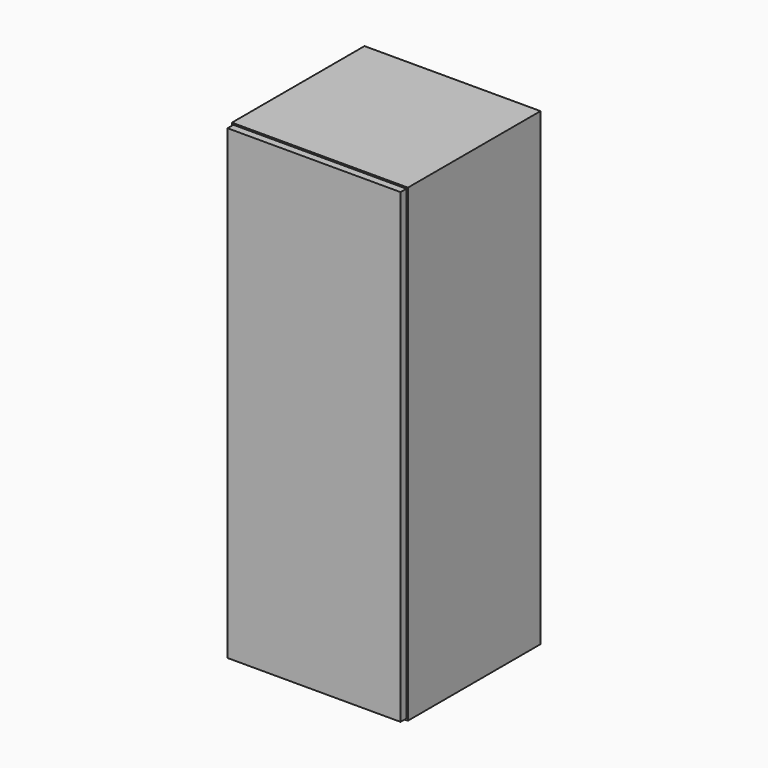
from build123d import *

# Parameters (mm, degrees)
F0_W     = 381
F0_H     = 1016
F1_DEPTH = 187.325
F2_W     = 381
F2_H     = 1016
F2_W_2   = 374.65
F2_H_2   = 1009.65
F3_DEPTH = 15.875


with BuildPart() as f1:
    # F0 (on Front) → F1 (new body, symmetric)
    with BuildSketch(Plane.XZ):
        with Locations((0, 622.3)):
            Rectangle(F0_W, F0_H)
    extrude(amount=F1_DEPTH, both=True)

    # F2 (on face) → F3 (cut)
    with BuildSketch(Plane.XZ.offset(187.325)):
        with Locations((0, 622.3)):
            Rectangle(F2_W, F2_H)
        with Locations((0, 622.3)):
            Rectangle(F2_W_2, F2_H_2, mode=Mode.SUBTRACT)
    extrude(amount=-F3_DEPTH, mode=Mode.SUBTRACT)


solid = f1.part
